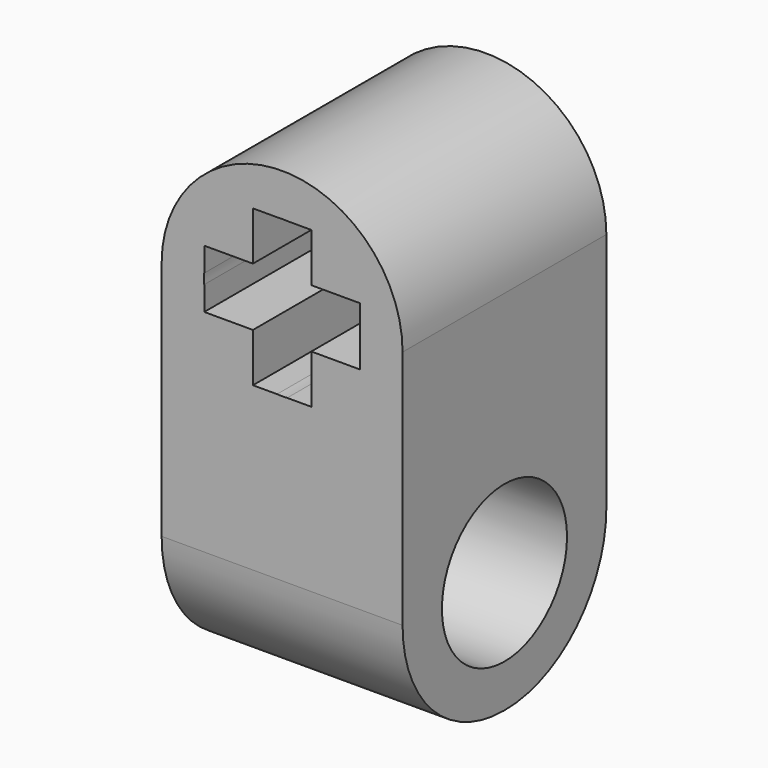
from build123d import *

# Parameters (mm, degrees)
F1_DEPTH = 3.885
F2_R     = 2.385
F3_DEPTH = 12.5
F4_R     = 3.8627416998


with BuildPart() as f1:
    # F0 (on Front) → F1 (new body, symmetric)
    with BuildSketch(Plane.XZ):
        with BuildLine():
            ThreePointArc((-3.675, 0), (0, -3.675), (3.675, 0))
            ThreePointArc((3.675, 0), (0, 3.675), (-3.675, 0))
        make_face()
        with BuildLine():
            ThreePointArc((2.375, 0.1541914395), (2.3787496716, 0.0771362431), (2.38, 0))
            ThreePointArc((2.38, 0), (2.3787496716, -0.0771362431), (2.375, -0.1541914395))
            Line((2.375, -0.1541914395), (2.375, -0.89))
            Line((2.375, -0.89), (2.2073287023, -0.89))
            ThreePointArc((2.2073287023, -0.89), (1.6829141392, -1.6829141392), (0.89, -2.2073287023))
            Line((0.89, -2.2073287023), (0.89, -2.375))
            Line((0.89, -2.375), (0.1541914395, -2.375))
            ThreePointArc((0.1541914395, -2.375), (0, -2.38), (-0.1541914395, -2.375))
            Line((-0.1541914395, -2.375), (-0.89, -2.375))
            Line((-0.89, -2.375), (-0.89, -2.2073287023))
            ThreePointArc((-0.89, -2.2073287023), (-1.6829141392, -1.6829141392), (-2.2073287023, -0.89))
            Line((-2.2073287023, -0.89), (-2.375, -0.89))
            Line((-2.375, -0.89), (-2.375, -0.1541914395))
            ThreePointArc((-2.375, -0.1541914395), (-2.38, 0), (-2.375, 0.1541914395))
            Line((-2.375, 0.1541914395), (-2.375, 0.89))
            Line((-2.375, 0.89), (-2.2073287023, 0.89))
            ThreePointArc((-2.2073287023, 0.89), (-1.6829141392, 1.6829141392), (-0.89, 2.2073287023))
            Line((-0.89, 2.2073287023), (-0.89, 2.375))
            Line((-0.89, 2.375), (-0.1541914395, 2.375))
            ThreePointArc((-0.1541914395, 2.375), (0, 2.38), (0.1541914395, 2.375))
            Line((0.1541914395, 2.375), (0.89, 2.375))
            Line((0.89, 2.375), (0.89, 2.2073287023))
            ThreePointArc((0.89, 2.2073287023), (1.6829141392, 1.6829141392), (2.2073287023, 0.89))
            Line((2.2073287023, 0.89), (2.375, 0.89))
            Line((2.375, 0.89), (2.375, 0.1541914395))
        make_face(mode=Mode.SUBTRACT)
        with BuildLine():
            Line((3.675, -11.2), (3.675, 0))
            ThreePointArc((3.675, 0), (0, -3.675), (-3.675, 0))
            Line((-3.675, 0), (-3.675, -11.2))
            Line((-3.675, -11.2), (3.675, -11.2))
        make_face()
        with BuildLine():
            Line((-0.89, -2.2073287023), (-0.89, -0.89))
            Line((-0.89, -0.89), (-2.2073287023, -0.89))
            ThreePointArc((-2.2073287023, -0.89), (-1.6829141392, -1.6829141392), (-0.89, -2.2073287023))
        make_face()
        with BuildLine():
            Line((-2.2073287023, 0.89), (-0.89, 0.89))
            Line((-0.89, 0.89), (-0.89, 2.2073287023))
            ThreePointArc((-0.89, 2.2073287023), (-1.6829141392, 1.6829141392), (-2.2073287023, 0.89))
        make_face()
        with BuildLine():
            Line((0.89, 0.89), (2.2073287023, 0.89))
            ThreePointArc((2.2073287023, 0.89), (1.6829141392, 1.6829141392), (0.89, 2.2073287023))
            Line((0.89, 2.2073287023), (0.89, 0.89))
        make_face()
        with BuildLine():
            ThreePointArc((0.89, -2.2073287023), (1.6829141392, -1.6829141392), (2.2073287023, -0.89))
            Line((2.2073287023, -0.89), (0.89, -0.89))
            Line((0.89, -0.89), (0.89, -2.2073287023))
        make_face()
    extrude(amount=F1_DEPTH, both=True)

    # F2 (on face) → F3 (cut, symmetric)
    with BuildSketch(Plane.YZ.offset(3.675)):
        with Locations((0, -7.505)):
            Circle(F2_R)
    extrude(amount=F3_DEPTH, both=True, mode=Mode.SUBTRACT)

    # F4
    f4_edges = [f1.edges().sort_by_distance(p)[0] for p in [
        (0, 3.885, -11.2),
        (0, -3.885, -11.2),
    ]]
    fillet(f4_edges, radius=F4_R)


solid = f1.part
